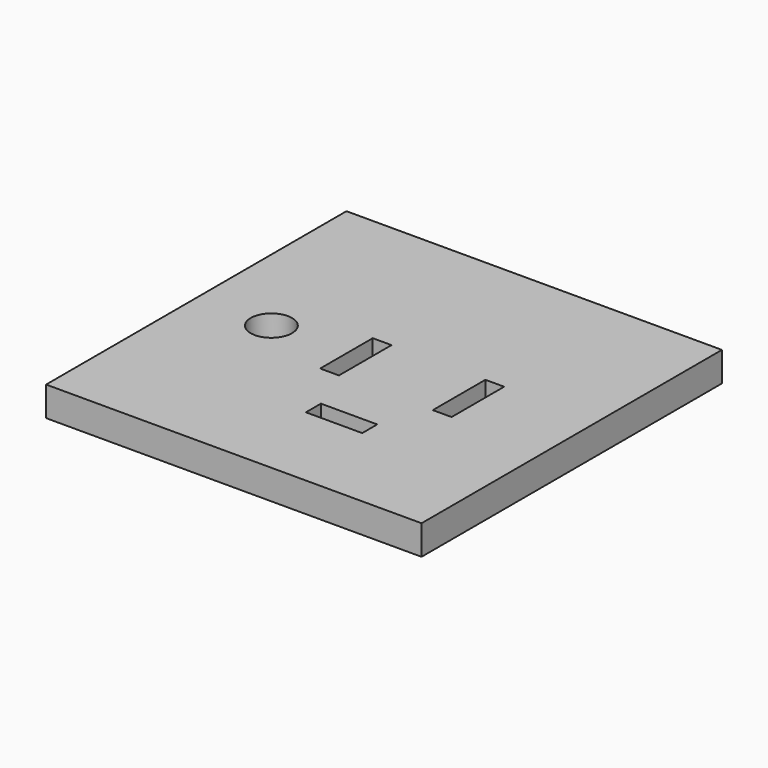
from build123d import *

# Parameters (mm, degrees)
F0_W     = 20
F0_H     = 20
F1_DEPTH = 1.5748
F2_R     = 1.1
F2_W     = 1
F2_H     = 3.5
F2_W_2   = 3
F2_H_2   = 1
F3_DEPTH = 25


with BuildPart() as f1:
    # F0 (on Top) → F1 (new body)
    with BuildSketch(Plane.XY):
        with Locations((10, 0)):
            Rectangle(F0_W, F0_H)
    extrude(amount=F1_DEPTH)

    # F2 (on face) → F3 (cut)
    with BuildSketch(Plane.XY.offset(1.5748)):
        with Locations((4, 0)):
            Circle(F2_R)
        with Locations((8.5, 0)):
            Rectangle(F2_W, F2_H)
        with Locations((14.5, 0)):
            Rectangle(F2_W, F2_H)
        with Locations((11.5, -4.7)):
            Rectangle(F2_W_2, F2_H_2)
    extrude(amount=-F3_DEPTH, mode=Mode.SUBTRACT)


solid = f1.part
